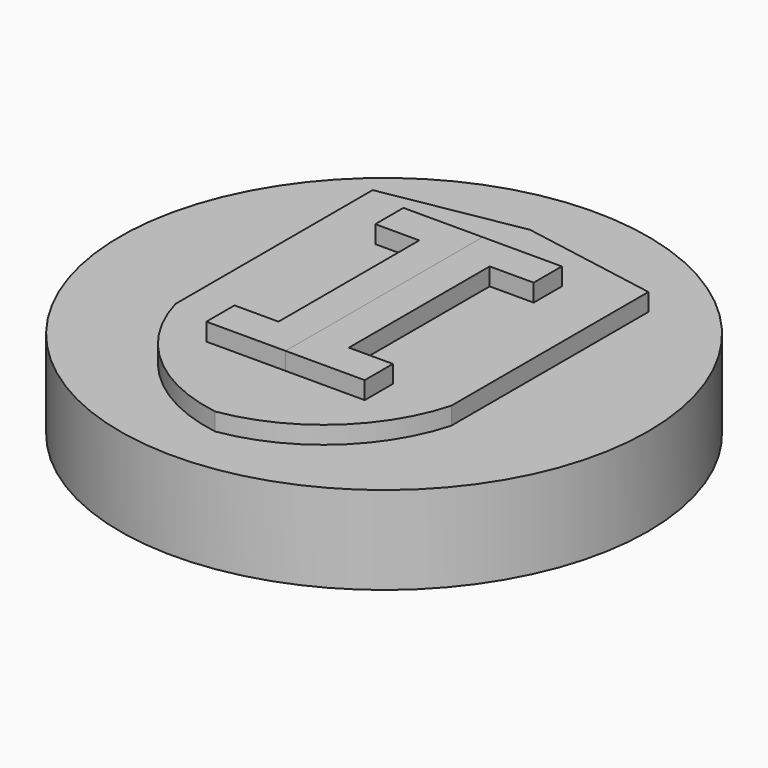
from build123d import *

# Parameters (mm, degrees)
F0_R     = 15
F1_DEPTH = 5
F2_DEPTH = 6
F3_DEPTH = 7
F4_DEPTH = 7


with BuildPart() as f1:
    # F0 (on Top) → F1 (new body)
    with BuildSketch(Plane.XY):
        Circle(F0_R)
        with BuildLine():
            Line((-7.835095, 8.981931), (0, 10.366618))
            Line((0, 10.366618), (7.835095, 8.981931))
            Line((7.835095, 8.981931), (7.835095, -5.018069))
            ThreePointArc((7.835095, -5.018069), (4.948034, -9.665443), (0, -12))
            ThreePointArc((0, -12), (-4.948034, -9.665443), (-7.835095, -5.018069))
            Line((-7.835095, -5.018069), (-7.835095, 8.981931))
        make_face(mode=Mode.SUBTRACT)
    extrude(amount=F1_DEPTH)


with BuildPart() as f2:
    # F0 (on Top) → F2 (new body)
    with BuildSketch(Plane.XY):
        with BuildLine():
            Line((7.835095, 8.981931), (0, 10.366618))
            Line((0, 10.366618), (-7.835095, 8.981931))
            Line((-7.835095, 8.981931), (-7.835095, -5.018069))
            ThreePointArc((-7.835095, -5.018069), (-4.948034, -9.665443), (0, -12))
            ThreePointArc((0, -12), (4.948034, -9.665443), (7.835095, -5.018069))
            Line((7.835095, -5.018069), (7.835095, 8.981931))
        make_face()
        Polygon((-4.5, 5), (-4.5, 7), (0, 7), (4.5, 7), (4.5, 5), (2, 5), (2, -5), (4.5, -5), (4.5, -7), (0, -7), (-4.5, -7), (-4.5, -5), (-2, -5), (-2, 5), align=None, mode=Mode.SUBTRACT)
    extrude(amount=F2_DEPTH)


with BuildPart() as f3:
    # F0 (on Top) → F3 (new body)
    with BuildSketch(Plane.XY):
        Polygon((0, 7), (-4.5, 7), (-4.5, 5), (-2, 5), (-2, -5), (-4.5, -5), (-4.5, -7), (0, -7), align=None)
    extrude(amount=F3_DEPTH)


with BuildPart() as f4:
    # F0 (on Top) → F4 (new body)
    with BuildSketch(Plane.XY):
        Polygon((4.5, 7), (0, 7), (0, -7), (4.5, -7), (4.5, -5), (2, -5), (2, 5), (4.5, 5), align=None)
    extrude(amount=F4_DEPTH)


solid = Compound([f1.part, f2.part, f3.part, f4.part])
